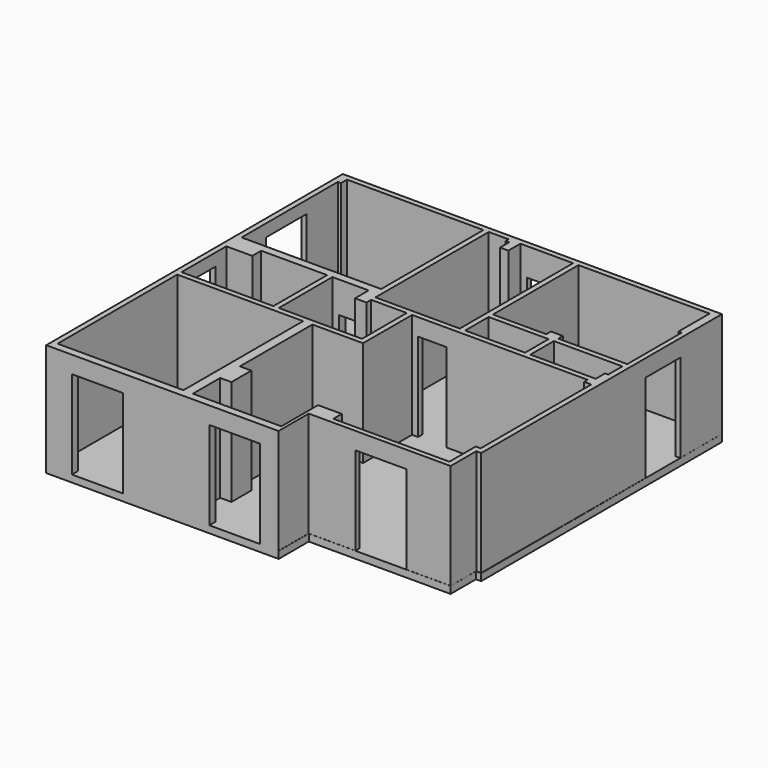
from build123d import *

# Parameters (mm, degrees)
F0_W      = 3562
F0_H      = 4233.004609108
F0_W_2    = 1695.5107385512
F0_H_2    = 831.3654631398
F1_DEPTH  = 2985
F2_W      = 1450
F2_H      = 2500
F3_DEPTH  = 144.9
F4_W      = 1440
F4_H      = 2500
F5_DEPTH  = 213.304599762
F6_W      = 1443
F6_H      = 2500
F7_DEPTH  = 213.304599762
F8_W      = 797
F8_H      = 2500
F9_DEPTH  = 150
F10_W     = 989
F10_H     = 2100
F11_DEPTH = 315.001
F12_W     = 648
F12_H     = 2100
F13_DEPTH = 150
F14_W     = 648
F14_H     = 2100
F15_DEPTH = 150
F16_W     = 1042
F16_H     = 2200
F17_DEPTH = 150
F18_W     = 1235
F18_H     = 2500
F19_DEPTH = 137.5694923401
F20_W     = 700
F20_H     = 2100
F21_DEPTH = 153.3939067339
F22_W     = 794
F22_H     = 2100
F23_DEPTH = 225.0975813866
F24_W     = 884
F24_H     = 2100
F25_DEPTH = 150
F26_W     = 646
F26_H     = 2100
F27_DEPTH = 150
F28_W     = 640
F28_H     = 1550
F29_DEPTH = 150
F30_W     = 1438
F30_H     = 1550
F31_DEPTH = 150
F33_DEPTH = 200


with BuildPart() as f1:
    # F0 (on Top) → F1 (new body)
    with BuildSketch(Plane.XY):
        Polygon((1409, -5111.9), (2800.470790863, -5111.9), (4212.9532585144, -5111.9), (4212.9532585144, -4204.4310569763), (4352.9532585144, -4204.4310569763), (4352.9532585144, 4306.8055872194), (-2273.6162338257, 4306.8055872194), (-6372.8999999957, 4306.8055872194), (-6372.8999999957, 541.0975813866), (-6372.8999999957, -6179.304599762), (-2660.8999999957, -6179.304599762), (-1872.0002385101, -6179.304599762), (-435.1912385101, -6179.304599762), (198.84583354, -6179.304599762), (198.84583354, -5111.9), (720.84583354, -5111.9), (1350.470790863, -5111.9), align=None)
        with Locations((-4441.8999999957, -3849.497695446)):
            Rectangle(F0_W, F0_H, mode=Mode.SUBTRACT)
        Polygon((-797, 0), (0, 0), (4001, 0), (4001, -125), (4202.9532585144, -125), (4202.9532585144, -4036), (4062.9532585144, -4036), (4062.9532585144, -4967), (2970.9532585144, -4967), (1520.9532585144, -4967), (778.9532585144, -4967), (778.9532585144, -4667), (106.9532585144, -4667), (106.9532585144, -5966), (-320.0467414856, -5966), (-1760.0467414856, -5966), (-2394.0467414856, -5966), (-2394.0467414856, -5002), (-2075.0467414856, -5002), (-2075.0467414856, -4297), (-2399.0467414856, -4297), (-2399.0467414856, -4291.9), (-2399.0467414856, -1733), (-967, -1733), (-967, 0), align=None, mode=Mode.SUBTRACT)
        Polygon((-5487.8999999957, 316), (-3622.8999999957, 316), (-3622.8999999957, -1583), (-6222.8999999957, -1583), (-6222.8999999957, 0), (-5487.8999999957, 0), align=None, mode=Mode.SUBTRACT)
        Polygon((-1117, -1583), (-2660.8999999957, -1583), (-3472.8999999957, -1579.3216228485), (-3472.8999999957, 316), (-2448.6162338257, 316), (-2448.6162338257, -166), (-2123.6162338257, -166), (-2123.6162338257, 0), (-1117, 0), align=None, mode=Mode.SUBTRACT)
        Polygon((-6132.8999999957, 4156.8055872194), (-2273.6162338257, 4156.8055872194), (-2273.6162338257, 541.0975813866), (-3622.8999999957, 541.0975813866), (-6222.8999999957, 541.0975813866), (-6222.8999999957, 3944.8055872194), (-6132.8999999957, 3944.8055872194), align=None, mode=Mode.SUBTRACT)
        with Locations((1262.1391354499, 565.6827315699)):
            Rectangle(F0_W_2, F0_H_2, mode=Mode.SUBTRACT)
        Polygon((4198.8945047255, 981.3654631398), (4198.8945047255, 479.3654631398), (4108.8945047255, 479.3654631398), (4108.8945047255, 149.4008999277), (2259.8945047255, 149.7780185152), (2259.8945047255, 150), (2259.8945047255, 981.3654631398), align=None, mode=Mode.SUBTRACT)
        Polygon((264.3837661743, 150), (0.0004012527, 150), (-1117, 150), (-2123.6162338257, 150), (-2123.6162338257, 4156.8055872194), (-1562.6162338257, 4156.8055872194), (-1562.6162338257, 4055.8055872194), (-1461.6162338257, 4055.8055872194), (-1461.6162338257, 3731.8055872194), (-1227.6162338257, 3731.8055872194), (-1227.6162338257, 4156.8055872194), (264.3837661743, 4156.8055872194), align=None, mode=Mode.SUBTRACT)
        Polygon((4215.3837661743, 1131.3654631398), (2262.5213682051, 1131.3654631398), (2262.5213682051, 1296.3654631398), (1923.5213682051, 1296.3654631398), (1923.5213682051, 1131.3654631398), (414.3837661743, 1131.3654631398), (414.3837661743, 4156.8055872194), (4125.3837661743, 4156.8055872194), (4125.3837661743, 3063.8055872194), (4215.3837661743, 3063.8055872194), align=None, mode=Mode.SUBTRACT)
    extrude(amount=F1_DEPTH)

    # F2 (on face) → F3 (cut, through all)
    with BuildSketch(Plane.XZ.offset(5111.9)):
        with Locations((2245.9532585144, 1250)):
            Rectangle(F2_W, F2_H)
    extrude(amount=-F3_DEPTH, mode=Mode.SUBTRACT)

    # F4 (on face) → F5 (cut, through all)
    with BuildSketch(Plane.XZ.offset(6179.304599762)):
        with Locations((-1040.0467414856, 1250)):
            Rectangle(F4_W, F4_H)
    extrude(amount=-F5_DEPTH, mode=Mode.SUBTRACT)

    # F6 (on face) → F7 (cut, through all)
    with BuildSketch(Plane.XZ.offset(6179.304599762)):
        with Locations((-4923.3999999957, 1250)):
            Rectangle(F6_W, F6_H)
    extrude(amount=-F7_DEPTH, mode=Mode.SUBTRACT)

    # F8 (on face) → F9 (cut, through all)
    with BuildSketch(Plane.XZ):
        with Locations((-398.5, 1250)):
            Rectangle(F8_W, F8_H)
    extrude(amount=-F9_DEPTH, mode=Mode.SUBTRACT)

    # F10 (on face) → F11 (cut, through all)
    with BuildSketch(Plane.XZ.offset(-981.3654631398)):
        with Locations((1456.8837661743, 1050)):
            Rectangle(F10_W, F10_H)
    extrude(amount=-F11_DEPTH, mode=Mode.SUBTRACT)

    # F12 (on face) → F13 (cut, through all)
    with BuildSketch(Plane(origin=(264.3837661743, 0, 0), x_dir=(0, -1, 0), z_dir=(-1, 0, 0))):
        with Locations((-582.9456732107, 1050)):
            Rectangle(F12_W, F12_H)
    extrude(amount=-F13_DEPTH, mode=Mode.SUBTRACT)

    # F14 (on face) → F15 (cut, through all)
    with BuildSketch(Plane(origin=(2109.8945047255, 0, 0), x_dir=(0, -1, 0), z_dir=(-1, 0, 0))):
        with Locations((-567.3654631398, 1050)):
            Rectangle(F14_W, F14_H)
    extrude(amount=-F15_DEPTH, mode=Mode.SUBTRACT)

    # F16 (on face) → F17 (cut, through all)
    with BuildSketch(Plane.XZ.offset(-4156.8055872194)):
        with Locations((-521, 1100)):
            Rectangle(F16_W, F16_H)
    extrude(amount=-F17_DEPTH, mode=Mode.SUBTRACT)

    # F18 (on face) → F19 (cut, through all)
    with BuildSketch(Plane(origin=(4215.3837661743, 0, 0), x_dir=(0, -1, 0), z_dir=(-1, 0, 0))):
        with Locations((-2216.3055872194, 1250)):
            Rectangle(F18_W, F18_H)
    extrude(amount=-F19_DEPTH, mode=Mode.SUBTRACT)

    # F20 (on face) → F21 (cut, through all)
    with BuildSketch(Plane.XZ.offset(1732.995390892)):
        with Locations((-3060.8999999957, 1050)):
            Rectangle(F20_W, F20_H)
    extrude(amount=-F21_DEPTH, mode=Mode.SUBTRACT)

    # F22 (on face) → F23 (cut, through all)
    with BuildSketch(Plane.XZ.offset(-316)):
        with Locations((-2885.8999999957, 1050)):
            Rectangle(F22_W, F22_H)
    extrude(amount=-F23_DEPTH, mode=Mode.SUBTRACT)

    # F24 (on face) → F25 (cut, through all)
    with BuildSketch(Plane.XZ):
        with Locations((-1571.6162338257, 1050)):
            Rectangle(F24_W, F24_H)
    extrude(amount=-F25_DEPTH, mode=Mode.SUBTRACT)

    # F26 (on face) → F27 (cut, through all)
    with BuildSketch(Plane.YZ.offset(-3472.8999999957)):
        with Locations((-716, 1050)):
            Rectangle(F26_W, F26_H)
    extrude(amount=-F27_DEPTH, mode=Mode.SUBTRACT)

    # F28 (on face) → F29 (cut, through all)
    with BuildSketch(Plane.YZ.offset(-6222.8999999957)):
        with Locations((-707.1478068829, 1860)):
            Rectangle(F28_W, F28_H)
    extrude(amount=-F29_DEPTH, mode=Mode.SUBTRACT)

    # F30 (on face) → F31 (cut, through all)
    with BuildSketch(Plane.YZ.offset(-6222.8999999957)):
        with Locations((2119.8055872194, 1860)):
            Rectangle(F30_W, F30_H)
    extrude(amount=-F31_DEPTH, mode=Mode.SUBTRACT)

    # F32 (on face) → F33 (join)
    with BuildSketch(Plane(origin=(0, 0, 0), x_dir=(1, 0, 0), z_dir=(0, 0, -1))):
        Polygon((202.7448713779, 6179.304599762), (-6377.0327568054, 6179.304599762), (-6373.4097480774, -4305.7265281677), (4353.7154197693, -4305.7265281677), (4361.6199493408, 4216.0544395447), (4213.9821052551, 4216.0544395447), (4213.9821052551, 5115.1938438416), (202.7448713779, 5115.1938438416), align=None)
    extrude(amount=F33_DEPTH)


solid = f1.part
